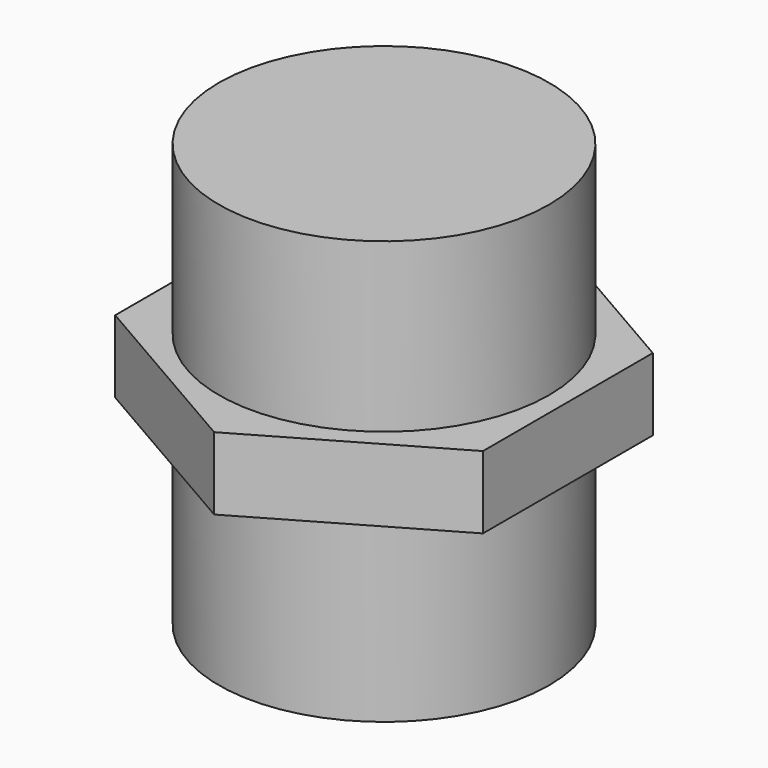
from build123d import *

# Parameters (mm, degrees)
EXTRUDE003_DEPTH  = 4.83
CYLINDER038_R     = 11
CYLINDER038_DEPTH = 28.19


with BuildPart() as extrude003:
    # Sketch017 → Extrude003 (new body)
    with BuildSketch(Plane.XY):
        Polygon((12.25, -7.072541), (12.25, 7.072541), (0, 14.145082), (-12.25, 7.072541), (-12.25, -7.072541), (0, -14.145082), align=None)
    extrude(amount=EXTRUDE003_DEPTH)


with BuildPart() as extrude003_1:
    # Extrude003 placement: moved
    add(extrude003.part.moved(Location((0, 0, 12.19))))


with BuildPart() as powerplug001:
    # Cylinder038 → Cylinder038 (new body)
    with BuildSketch(Plane.XY):
        Circle(CYLINDER038_R)
    extrude(amount=CYLINDER038_DEPTH)

    # Fusion014: union Extrude003
    add(extrude003_1.part)


with BuildPart() as powerplug001_1:
    # Fusion014 placement: moved
    add(powerplug001.part.moved(Location((137.5, 68.75, -17))))


solid = powerplug001_1.part
